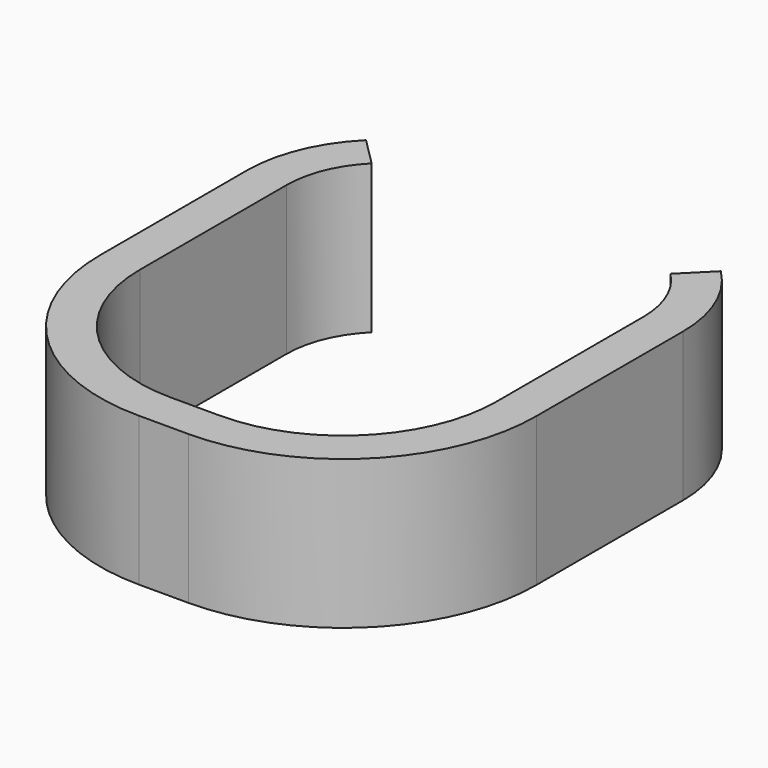
from build123d import *

# Parameters (mm, degrees)
F1_DEPTH = 15


with BuildPart() as f1:
    # F0 (on Top) → F1 (new body)
    with BuildSketch(Plane.XY):
        with BuildLine():
            ThreePointArc((-18, 12), (-17.238795, 15.826834), (-15.071068, 19.071068))
            Line((-15.071068, 19.071068), (-17.899495, 21.899495))
            ThreePointArc((-17.899495, 21.899495), (-20.934313, 17.357568), (-22, 12))
            Line((-22, 12), (-22, -6.5))
            ThreePointArc((-22, -6.5), (-16.288582, -20.288582), (-2.5, -26))
            Line((-2.5, -26), (2.5, -26))
            ThreePointArc((2.5, -26), (16.288582, -20.288582), (22, -6.5))
            Line((22, -6.5), (22, 12))
            ThreePointArc((22, 12), (20.934313, 17.357568), (17.899495, 21.899495))
            Line((17.899495, 21.899495), (15.071068, 19.071068))
            ThreePointArc((15.071068, 19.071068), (17.238795, 15.826834), (18, 12))
            Line((18, 12), (18, -6.5))
            ThreePointArc((18, -6.5), (13.460155, -17.460155), (2.5, -22))
            Line((2.5, -22), (-2.5, -22))
            ThreePointArc((-2.5, -22), (-13.460155, -17.460155), (-18, -6.5))
            Line((-18, -6.5), (-18, 12))
        make_face()
    extrude(amount=F1_DEPTH)


solid = f1.part
